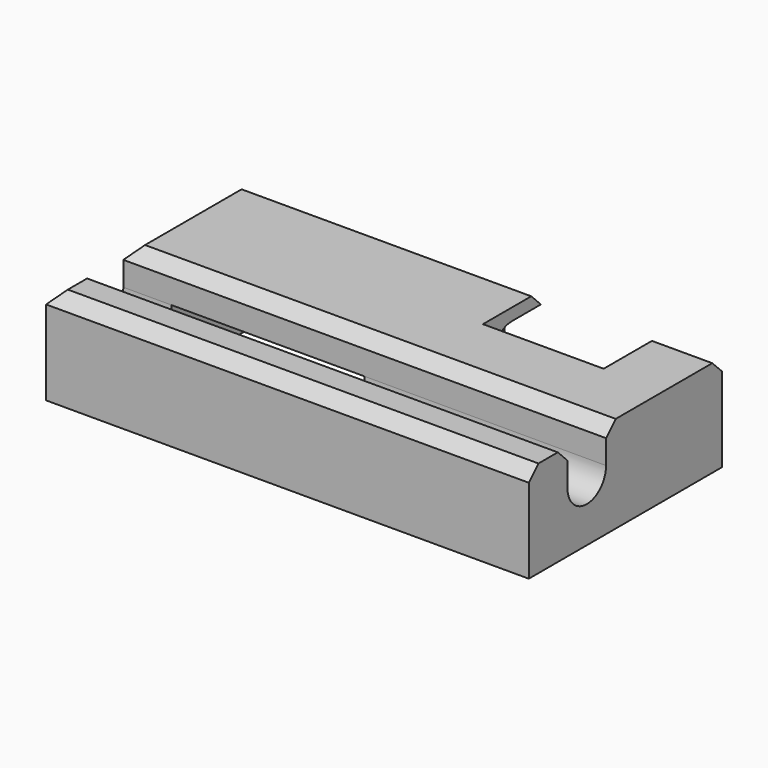
from build123d import *

# Parameters (mm, degrees)
SKETCH_W             = 40
SKETCH_H             = 20
PAD_DEPTH            = 10
POCKET_DEPTH         = 40.001
SKETCH002_W          = 10
SKETCH002_H          = 6
POCKET001_DEPTH      = 8.001
SKETCH003_R          = 2
POCKET002_DEPTH      = 3
POCKET002_DEPTH_BACK = -13
SKETCH004_W          = 16
SKETCH004_H          = 4
POCKET003_DEPTH      = 3
CHAMFER_SIZE         = 1
CHAMFER001_SIZE      = 1
CHAMFER002_SIZE      = 1
CHAMFER003_SIZE      = 1
CHAMFER004_SIZE      = 1
CHAMFER005_SIZE      = 1
CHAMFER006_SIZE      = 1
SKETCH005_W          = 16
SKETCH005_H          = 12
POCKET004_DEPTH      = 5


with BuildPart() as part:
    # Sketch → Pad (new body)
    with BuildSketch(Plane.XY):
        with Locations((20, 10)):
            Rectangle(SKETCH_W, SKETCH_H)
    extrude(amount=PAD_DEPTH)

    # Sketch001 (on Face2 of Pad) → Pocket (cut, through all)
    with BuildSketch(Plane.YZ.offset(40)):
        with BuildLine():
            Line((0, 8), (4, 8))
            Line((4, 8), (4, 5))
            ThreePointArc((4, 5), (6, 3), (8, 5))
            Line((8, 8), (8, 5))
            Line((8, 8), (25, 8))
            Line((25, 8), (25, 10))
            Line((25, 10), (0, 10))
            Line((0, 10), (0, 8))
        make_face()
    extrude(amount=-POCKET_DEPTH, mode=Mode.SUBTRACT)

    # Sketch002 (on Face4 of Pocket) → Pocket001 (cut, through all)
    with BuildSketch(Plane.XY.offset(8)):
        with Locations((30, 17)):
            Rectangle(SKETCH002_W, SKETCH002_H)
    extrude(amount=-POCKET001_DEPTH, mode=Mode.SUBTRACT)

    # Sketch003 (on Face9 of Pocket001) → Pocket002 (cut, two sides)
    with BuildSketch(Plane(origin=(35, 0, 0), x_dir=(0, -1, 0), z_dir=(-1, 0, 0))) as pocket002_sk:
        with Locations((-17, 5)):
            Circle(SKETCH003_R)
    extrude(amount=-POCKET002_DEPTH, mode=Mode.SUBTRACT)
    extrude(pocket002_sk.sketch, amount=-POCKET002_DEPTH_BACK, mode=Mode.SUBTRACT)

    # Sketch004 (on Face1 of Pocket002) → Pocket003 (cut)
    with BuildSketch(Plane(origin=(0, 20, 0), x_dir=(-1, 0, 0), z_dir=(0, 1, 0))):
        with Locations((-30, 5)):
            Rectangle(SKETCH004_W, SKETCH004_H)
    extrude(amount=-POCKET003_DEPTH, mode=Mode.SUBTRACT)

    # Chamfer
    chamfer_edges = [part.edges().sort_by_distance(p)[0] for p in [
        (20, 0, 8),
    ]]
    chamfer(chamfer_edges, length=CHAMFER_SIZE)

    # Chamfer001
    chamfer001_edges = [part.edges().sort_by_distance(p)[0] for p in [
        (12.5, 20, 8),
    ]]
    chamfer(chamfer001_edges, length=CHAMFER001_SIZE)

    # Chamfer002
    chamfer002_edges = [part.edges().sort_by_distance(p)[0] for p in [
        (37.5, 20, 8),
    ]]
    chamfer(chamfer002_edges, length=CHAMFER002_SIZE)

    # Chamfer003
    chamfer003_edges = [part.edges().sort_by_distance(p)[0] for p in [
        (0, 13.5, 8),
    ]]
    chamfer(chamfer003_edges, length=CHAMFER003_SIZE)

    # Chamfer004
    chamfer004_edges = [part.edges().sort_by_distance(p)[0] for p in [
        (0, 2.5, 8),
    ]]
    chamfer(chamfer004_edges, length=CHAMFER004_SIZE)

    # Chamfer005
    chamfer005_edges = [part.edges().sort_by_distance(p)[0] for p in [
        (20.5, 8, 8),
    ]]
    chamfer(chamfer005_edges, length=CHAMFER005_SIZE)

    # Chamfer006
    chamfer006_edges = [part.edges().sort_by_distance(p)[0] for p in [
        (20.5, 4, 8),
    ]]
    chamfer(chamfer006_edges, length=CHAMFER006_SIZE)

    # Sketch005 (on Face11 of Chamfer006) → Pocket004 (cut)
    with BuildSketch(Plane(origin=(0, 0, 0), x_dir=(1, 0, 0), z_dir=(0, 0, -1))):
        with Locations((12, -10)):
            Rectangle(SKETCH005_W, SKETCH005_H)
    extrude(amount=-POCKET004_DEPTH, mode=Mode.SUBTRACT)


solid = part.part
